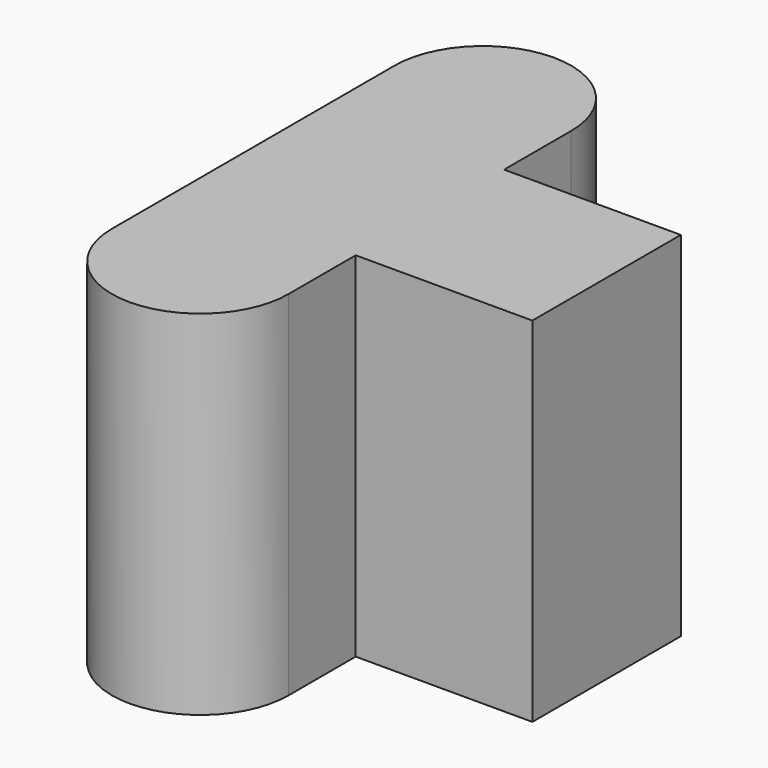
from build123d import *

# Parameters (mm, degrees)
PAD_DEPTH = 10


with BuildPart() as part:
    # Sketch → Pad (new body)
    with BuildSketch(Plane.XY):
        with BuildLine():
            ThreePointArc((2.5, 0), (0, 2.5), (-2.5, 0))
            Line((-2.5, 0), (-2.5, -10))
            ThreePointArc((-2.5, -10), (0, -12.5), (2.5, -10))
            Line((2.5, -7.625), (2.5, -10))
            Line((7.5, -7.625), (2.5, -7.625))
            Line((7.5, -2.375), (7.5, -7.625))
            Line((2.5, -2.375), (7.5, -2.375))
            Line((2.5, 0), (2.5, -2.375))
        make_face()
    extrude(amount=PAD_DEPTH)


solid = part.part
